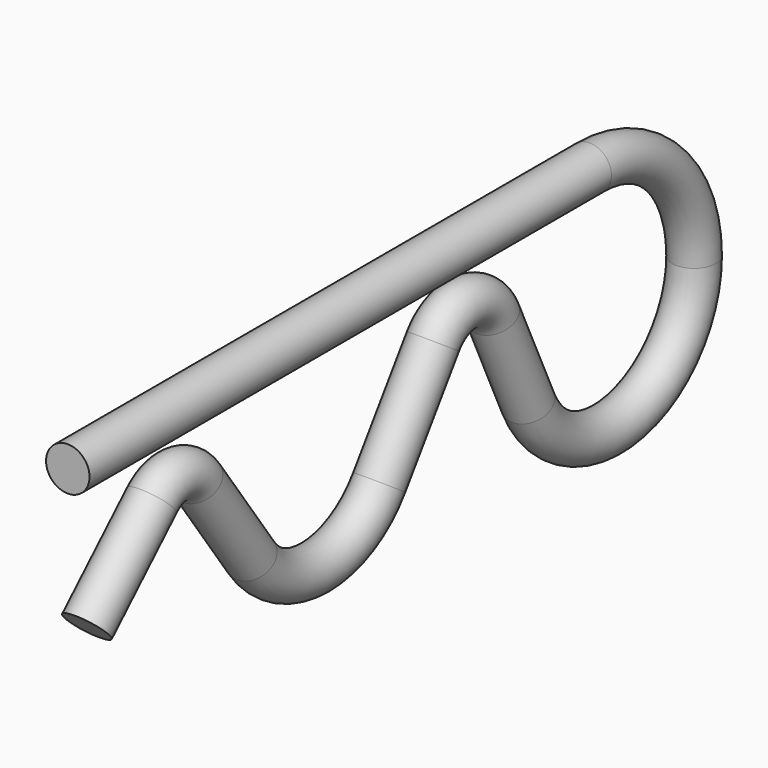
from build123d import *

# Parameters (mm, degrees)
F1_R = 1.27


with BuildPart() as f2:
    # F2: sweep along a path in F0
    with BuildLine(Plane.YZ) as f2_path:
        Line((0, 7.9375), (38.1, 7.9375))
        ThreePointArc((38.1, 7.9375), (43.4881536726, 5.7056536726), (45.72, 0.3175))
        ThreePointArc((45.72, 0.3175), (40.7288959178, -5.8853946375), (33.6016057057, -2.3373309297))
        Line((33.6016057057, -2.3373309297), (31.0214150971, 3.2688855034))
        ThreePointArc((31.0214150971, 3.2688855034), (28.9472424153, 4.7290235113), (26.6509627241, 3.6513895773))
        Line((26.6509627241, 3.6513895773), (22.733008489, -2.0032115281))
        ThreePointArc((22.733008489, -2.0032115281), (18.0729141888, -4.4598944955), (13.3863929659, -2.0540081896))
        Line((13.3863929659, -2.0540081896), (9.4210648876, 3.5381336046))
        ThreePointArc((9.4210648876, 3.5381336046), (7.8530312418, 4.4435410619), (6.1442476216, 3.8447500152))
        Line((6.1442476216, 3.8447500152), (1.3983437093, -0.733290799))
    # F1 (on Front) → F2 (sweep)
    with BuildSketch(Plane.XZ):
        with Locations((0, 7.9375)):
            Circle(F1_R)
    sweep(path=f2_path.line)


solid = f2.part
